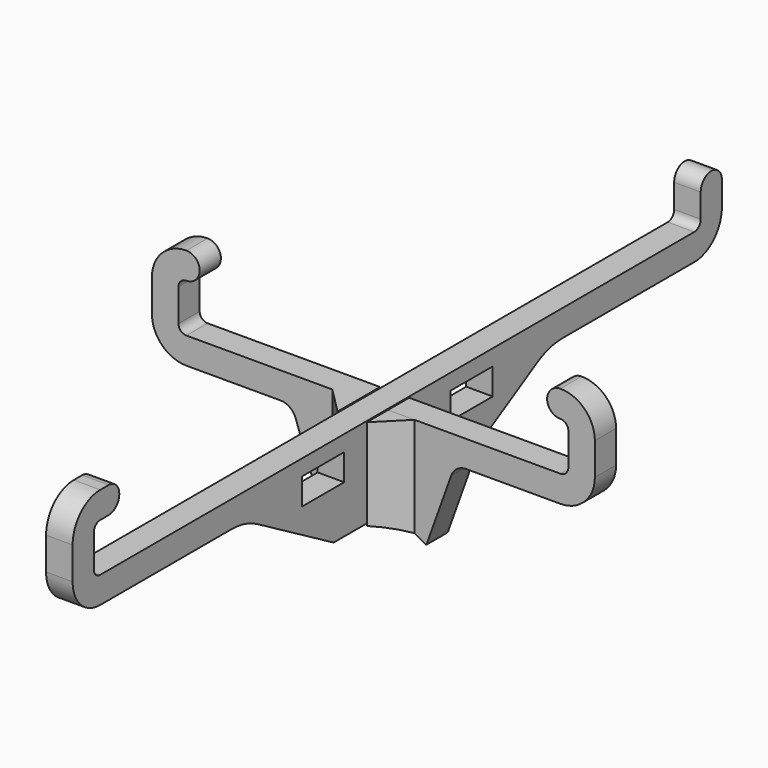
from build123d import *

# Parameters (mm, degrees)
SKETCH_W     = 10
SKETCH_H     = 5
PAD_DEPTH    = 2.5
PAD001_DEPTH = 2.5
PAD002_DEPTH = 20
POCKET_DEPTH = 10


with BuildPart() as vertical:
    # Sketch → Pad (new body, symmetric)
    with BuildSketch(Plane.YZ):
        with BuildLine():
            Line((76.5, 18.5), (76.5, 22.999997))
            ThreePointArc((76.5, 22.999997), (74.000001, 25.499998), (71.5, 23))
            Line((71.5, 18.499997), (71.5, 23))
            ThreePointArc((69.999998, 17), (71.060658, 17.439339), (71.5, 18.499997))
            Line((-69.999999, 17), (69.999998, 17))
            ThreePointArc((-71.5, 18.499997), (-71.060659, 17.439338), (-69.999999, 17))
            Line((-71.5, 24.600004), (-71.5, 18.499997))
            ThreePointArc((-69.999999, 26.1), (-71.060659, 25.660662), (-71.5, 24.600004))
            Line((-69.999999, 26.1), (-67.999999, 26.1))
            ThreePointArc((-67.999999, 26.1), (-65.499998, 28.599999), (-67.999997, 31.1))
            Line((-67.999997, 31.1), (-69.999999, 31.1))
            ThreePointArc((-69.999999, 31.1), (-74.596194, 29.196194), (-76.5, 24.6))
            Line((-76.5, 18.499997), (-76.5, 24.6))
            ThreePointArc((-76.5, 18.499997), (-74.596193, 13.903805), (-69.999999, 12))
            Line((-69.999999, 12), (-38.999983, 12))
            ThreePointArc((-33, 10.392302), (-35.894162, 11.591109), (-38.999983, 12))
            Line((-15, 0), (-33, 10.392302))
            Line((-15, 0), (-2.75, 0))
            Line((-2.75, 0), (-2.75, 8.7))
            Line((-2.75, 8.7), (2.75, 8.7))
            Line((2.75, 8.7), (2.75, 0))
            Line((2.75, 0), (15, 0))
            Line((15, 0), (33, 10.392302))
            ThreePointArc((38.999983, 12), (35.894162, 11.591109), (33, 10.392302))
            Line((38.999983, 12), (70, 12))
            ThreePointArc((70, 12), (74.596194, 13.903806), (76.5, 18.5))
        make_face()
        with Locations((-17.5, 11.5)):
            Rectangle(SKETCH_W, SKETCH_H, mode=Mode.SUBTRACT)
        with Locations((17.5, 11.5)):
            Rectangle(SKETCH_W, SKETCH_H, mode=Mode.SUBTRACT)
    extrude(amount=PAD_DEPTH, both=True)


with BuildPart() as fusion:
    # Sketch001 → Pad001 (new body, symmetric)
    with BuildSketch(Plane.XZ):
        with BuildLine():
            Line((17.5, 11.999995), (35.250002, 12))
            ThreePointArc((35.250002, 12), (39.846193, 13.903805), (41.75, 18.499995))
            Line((41.75, 24.599994), (41.75, 18.499995))
            ThreePointArc((41.75, 24.599994), (39.846193, 29.196186), (35.249999, 31.09999))
            ThreePointArc((35.249999, 31.09999), (32.749999, 28.59999), (35.249999, 26.09999))
            ThreePointArc((36.75, 24.599994), (36.310659, 25.660652), (35.249999, 26.09999))
            Line((36.75, 18.499995), (36.75, 24.599994))
            ThreePointArc((35.249999, 17), (36.310658, 17.439338), (36.75, 18.499995))
            Line((2.75, 17), (35.249999, 17))
            Line((2.75, 8.3), (2.75, 17))
            Line((-2.75, 8.3), (2.75, 8.3))
            Line((-2.75, 16.999995), (-2.75, 8.3))
            Line((-35.25, 16.999995), (-2.75, 16.999995))
            ThreePointArc((-36.75, 18.499995), (-36.31066, 17.439335), (-35.25, 16.999995))
            Line((-36.75, 18.499995), (-36.75, 24.599994))
            ThreePointArc((-35.249999, 26.099995), (-36.31066, 25.660655), (-36.75, 24.599994))
            ThreePointArc((-35.249999, 26.099995), (-32.749999, 28.599995), (-35.249999, 31.099995))
            ThreePointArc((-35.249999, 31.099995), (-39.846194, 29.196189), (-41.75, 24.599994))
            Line((-41.75, 24.599994), (-41.75, 18.499995))
            ThreePointArc((-41.75, 18.499995), (-39.846194, 13.903801), (-35.249999, 11.999995))
            Line((-35.249999, 11.999995), (-17.5, 11.999995))
            ThreePointArc((-14.676752, 10.014525), (-15.774252, 11.453929), (-17.5, 11.999995))
            Line((-14.676752, 10.014525), (-10, -3))
            Line((-10, -3), (10, -3))
            Line((10, -3), (14.676753, 10.014525))
            ThreePointArc((17.5, 11.999995), (15.774253, 11.453929), (14.676753, 10.014525))
        make_face()
    extrude(amount=PAD001_DEPTH, both=True)

    # Sketch002 → Pad002 (new body)
    with BuildSketch(Plane(origin=(0, 0, 16.999995), x_dir=(-1, 0, 0), z_dir=(0, 0, 1))):
        Polygon((-7.75, 2.5), (-2.75, 7.5), (-2.75, 2.5), align=None)
        Polygon((2.75, 7.5), (2.75, 2.5), (7.75, 2.5), align=None)
    extrude(amount=-PAD002_DEPTH)

    # Sketch003 → Pocket (cut)
    with BuildSketch(Plane(origin=(0, 2.5, 0), x_dir=(1, 0, 0), z_dir=(0, 1, 0))):
        with BuildLine():
            ThreePointArc((-10, 3.138593), (0, 0), (10, 3.138593))
            Line((-10, 3.138593), (10, 3.138593))
        make_face()
    extrude(amount=-POCKET_DEPTH, mode=Mode.SUBTRACT)

    # Fusion: union Vertical
    add(vertical.part)


solid = fusion.part
